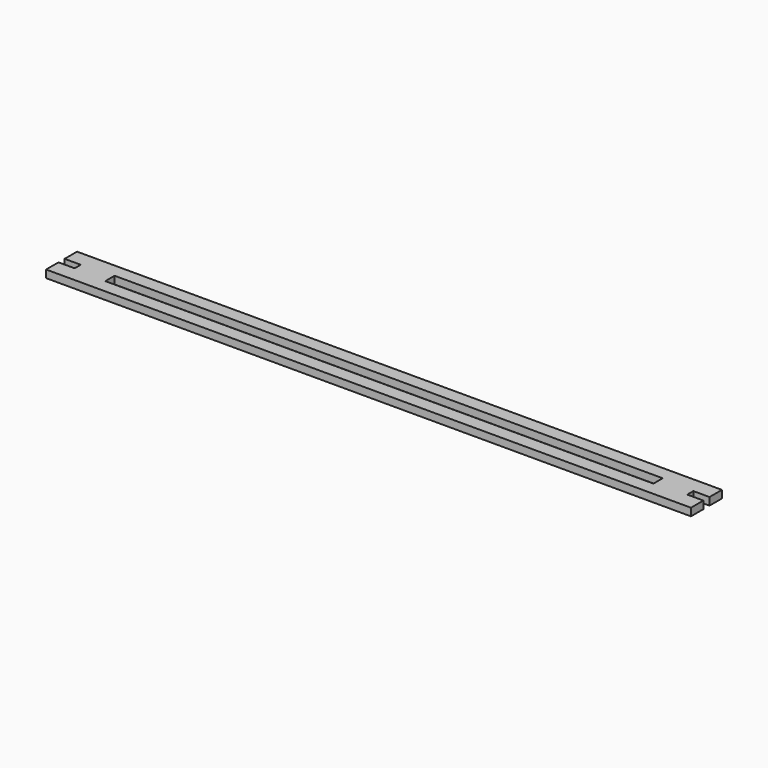
from build123d import *

# Parameters (mm, degrees)
F0_W     = 215.9
F0_H     = 4.572
F1_DEPTH = 3


with BuildPart() as f1:
    # F0 (on Top) → F1 (new body)
    with BuildSketch(Plane.XY):
        Polygon((0, 6.12), (0, 0), (254, 0), (254, 6.12), (247.65, 6.12), (247.65, 9.12), (254, 9.12), (254, 15.24), (0, 15.24), (0, 9.12), (6.35, 9.12), (6.35, 6.12), align=None)
        with Locations((127, 7.62)):
            Rectangle(F0_W, F0_H, mode=Mode.SUBTRACT)
    extrude(amount=F1_DEPTH)


solid = f1.part
